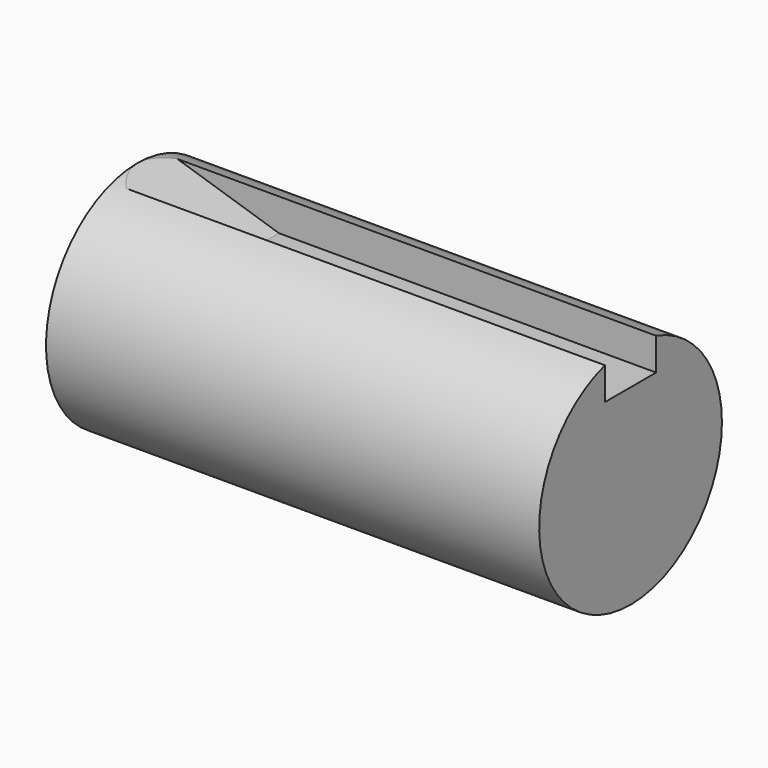
from build123d import *

# Parameters (mm, degrees)
F0_R     = 12.5
F1_DEPTH = 53.975
F3_W     = 7
F3_H     = 4.045
F4_DEPTH = 41.276
F6_DEPTH = 3.5


with BuildPart() as f1:
    # F0 (on Right) → F1 (new body)
    with BuildSketch(Plane.YZ):
        Circle(F0_R)
    extrude(amount=F1_DEPTH)

    # F3 (on offset) → F4 (cut, through all)
    with BuildSketch(Plane.YZ.offset(12.7)):
        with Locations((0, 10.4775)):
            Rectangle(F3_W, F3_H)
    extrude(amount=F4_DEPTH, mode=Mode.SUBTRACT)

    # F5 (on Front) → F6 (cut, symmetric)
    with BuildSketch(Plane.XZ):
        Polygon((0, 12.5), (12.7, 8.455), (12.7, 12.5), align=None)
    extrude(amount=F6_DEPTH, both=True, mode=Mode.SUBTRACT)


solid = f1.part
